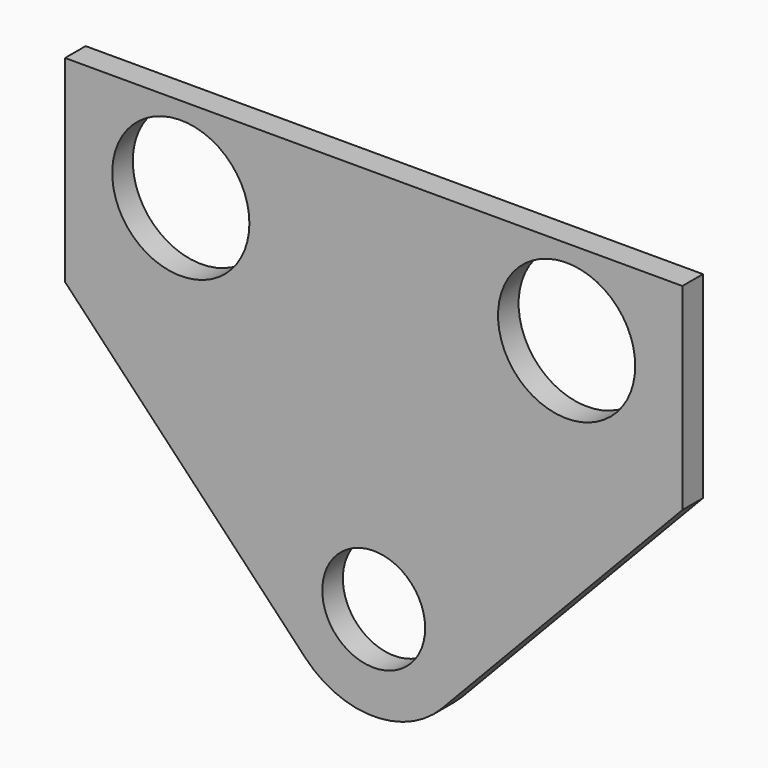
from build123d import *

# Parameters (mm, degrees)
F0_R     = 60
F0_R_2   = 80
F1_DEPTH = 15


with BuildPart() as f1:
    # F0 (on Front) → F1 (new body, symmetric)
    with BuildSketch(Plane.XZ):
        with BuildLine():
            Line((360, 449), (-360, 449))
            Line((-360, 449), (-360, 219))
            Line((-360, 219), (-79.719446, -75.794524))
            ThreePointArc((-79.719446, -75.794524), (0, -110), (79.719446, -75.794524))
            Line((79.719446, -75.794524), (360, 219))
            Line((360, 219), (360, 449))
        make_face()
        Circle(F0_R, mode=Mode.SUBTRACT)
        with Locations((-225, 349)):
            Circle(F0_R_2, mode=Mode.SUBTRACT)
        with Locations((225, 349)):
            Circle(F0_R_2, mode=Mode.SUBTRACT)
    extrude(amount=F1_DEPTH, both=True)


solid = f1.part
